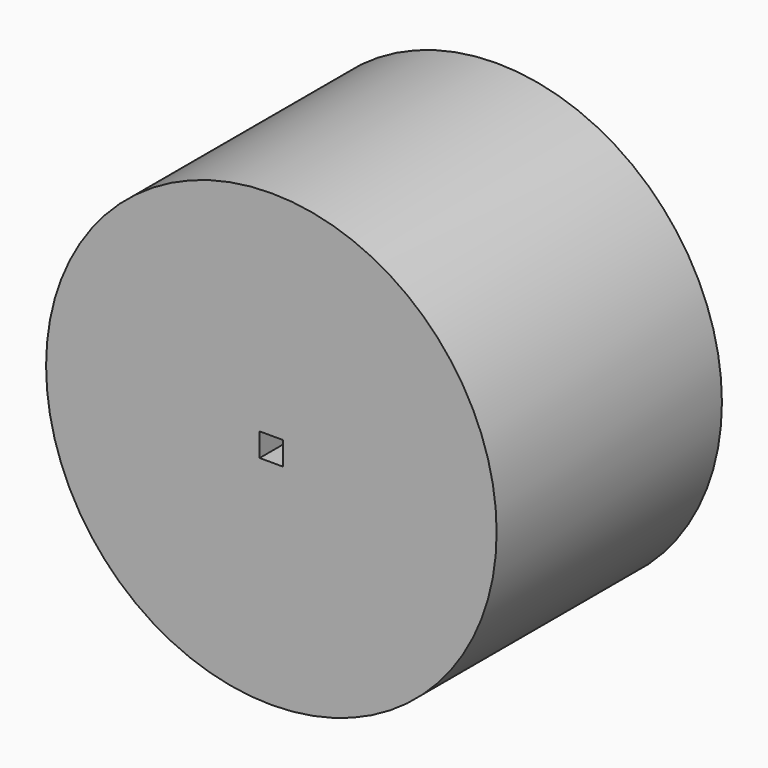
from build123d import *

# Parameters (mm, degrees)
F0_R     = 1219.2
F0_W     = 127
F0_H     = 127
F1_DEPTH = 1524


with BuildPart() as f1:
    # F0 (on Front) → F1 (new body)
    with BuildSketch(Plane.XZ):
        Circle(F0_R)
        Rectangle(F0_W, F0_H, mode=Mode.SUBTRACT)
    extrude(amount=F1_DEPTH)


solid = f1.part
